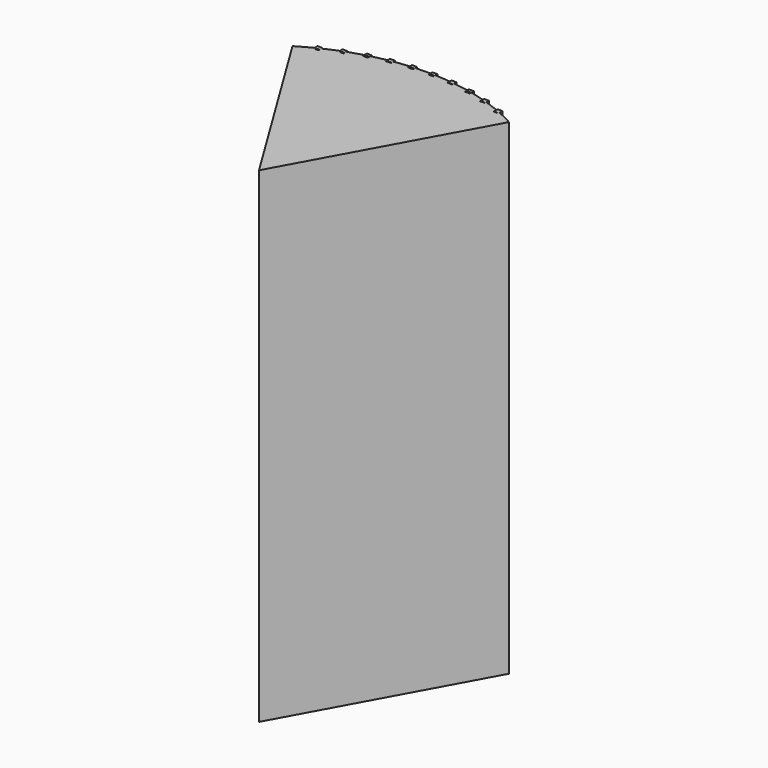
from build123d import *

# Parameters (mm, degrees)
F1_DEPTH = 2438.4
F2_W     = 101.6
F2_H     = 304.8
F3_DEPTH = 76.2


with BuildPart() as f1:
    # F0 (on Top) → F1 (new body)
    with BuildSketch(Plane.XY):
        Polygon((224.1277476209, 924.8243445616), (0, 0), (509.8876894797, 931.9939324599), align=None)
        Polygon((-270.2234111133, 912.4212972272), (-555.9833529721, 905.2517093289), (0, 0), align=None)
        Polygon((-270.2234111133, 912.4212972272), (-555.9833529721, 905.2517093289), (0, 0), align=None)
        Polygon((-474.6199722337, 941.5233528239), (-555.9833529721, 905.2517093289), (-270.2234111133, 912.4212972272), (-301.6757642422, 1018.6215584278), (-360.974825498, 992.1861474365), (-360.974825498, 981.7673301894), (-384.3459802856, 981.7673301894), (-454.2646013891, 950.5977392098), (-454.2646013891, 941.5233528239), align=None)
        with BuildLine():
            ThreePointArc((-479.6646013891, 947.9029571635), (-518.2629193552, 927.3627620551), (-555.9833529721, 905.2517093289))
            Line((-555.9833529721, 905.2517093289), (-474.6199722337, 941.5233528239))
            Line((-474.6199722337, 941.5233528239), (-479.6646013891, 941.5233528239))
            Line((-479.6646013891, 941.5233528239), (-479.6646013891, 947.9029571635))
        make_face()
        with BuildLine():
            Line((-479.6646013891, 966.9233528239), (-479.6646013891, 947.9029571635))
            ThreePointArc((-479.6646013891, 947.9029571635), (-467.0059668107, 954.2031088758), (-454.2646013891, 960.3342220028))
            Line((-454.2646013891, 960.3342220028), (-454.2646013891, 966.9233528239))
            Line((-454.2646013891, 966.9233528239), (-479.6646013891, 966.9233528239))
        make_face()
        with BuildLine():
            ThreePointArc((-454.2646013891, 960.3342220028), (-467.0059668107, 954.2031088758), (-479.6646013891, 947.9029571635))
            Line((-479.6646013891, 947.9029571635), (-479.6646013891, 941.5233528239))
            Line((-479.6646013891, 941.5233528239), (-474.6199722337, 941.5233528239))
            Line((-474.6199722337, 941.5233528239), (-454.2646013891, 950.5977392098))
            Line((-454.2646013891, 950.5977392098), (-454.2646013891, 960.3342220028))
        make_face()
        Polygon((224.1277476209, 924.8243445616), (0, 0), (509.8876894797, 931.9939324599), align=None)
        Polygon((-270.2234111133, 912.4212972272), (0, 0), (-23.0478317462, 918.6228208944), align=None)
        Polygon((-23.0478317462, 918.6228208944), (0, 0), (224.1277476209, 924.8243445616), align=None)
        Polygon((-301.6757642422, 1018.6215584278), (-270.2234111133, 912.4212972272), (-23.0478317462, 918.6228208944), (-26.6456220174, 1062.020789275), (-64.1601768635, 1056.1010642124), (-64.1601768635, 1046.8709788577), (-89.5601768635, 1046.8709788577), (-89.5601768635, 1052.092992753), (-165.0265067315, 1040.1845501197), (-165.0265067315, 1034.6831365981), (-190.4265067315, 1034.6831365981), (-190.4265067315, 1036.1764786603), (-264.2672867652, 1024.5245446843), (-264.2672867652, 1012.9155556966), (-289.6672867652, 1012.9155556966), (-289.6672867652, 1020.5164732249), align=None)
        with BuildLine():
            ThreePointArc((-386.374825498, 989.6022636627), (-420.5743882774, 975.558983327), (-454.2646013891, 960.3342220028))
            Line((-454.2646013891, 960.3342220028), (-454.2646013891, 950.5977392098))
            Line((-454.2646013891, 950.5977392098), (-384.3459802856, 981.7673301894))
            Line((-384.3459802856, 981.7673301894), (-386.374825498, 981.7673301894))
            Line((-386.374825498, 981.7673301894), (-386.374825498, 989.6022636627))
        make_face()
        with BuildLine():
            Line((427.8412147102, 963.7398903784), (509.8876894797, 931.9939324599))
            ThreePointArc((509.8876894797, 931.9939324599), (470.9582981255, 952.2585927424), (431.2251324627, 970.8980539467))
            Line((431.2251324626, 970.8980539467), (431.2251324626, 963.7398903784))
            Line((431.2251324626, 963.7398903784), (427.8412147102, 963.7398903784))
        make_face()
        Polygon((224.1277476209, 924.8243445616), (509.8876894797, 931.9939324599), (427.8412147102, 963.7398903784), (405.8251324626, 963.7398903784), (405.8251324626, 972.2584967234), (336.0345957465, 999.2623070386), (336.0345957465, 999.2549818141), (310.6345957465, 999.2549818141), (310.6345957465, 1009.090240943), (250.2148473105, 1032.4682446499), align=None)
        Polygon((-26.6456220174, 1062.020789275), (-23.0478317462, 918.6228208944), (224.1277476209, 924.8243445616), (250.2148473105, 1032.4682446499), (237.8867258321, 1033.7841687362), (237.8867258321, 1025.5143731109), (212.4867258321, 1025.5143731109), (212.4867258321, 1036.4954067663), (137.6792180415, 1044.480483934), (137.6792180415, 1042.2778865373), (112.2792180415, 1042.2778865373), (112.2792180415, 1047.1917219641), (36.0792180415, 1055.3254360545), (36.0792180415, 1049.3977159324), (10.6792180415, 1049.3977159324), (10.6792180415, 1058.0366740846), align=None)
        with BuildLine():
            Line((-360.974825498, 992.1861474365), (-301.6757642422, 1018.6215584278))
            ThreePointArc((-301.6757642422, 1018.6215584278), (-331.4683434869, 1009.3200103491), (-360.974825498, 999.1472971398))
            Line((-360.974825498, 999.1472971398), (-360.974825498, 992.1861474365))
        make_face()
        with BuildLine():
            ThreePointArc((-289.6672867653, 1022.1012714027), (-295.6766444857, 1020.3790805042), (-301.6757642422, 1018.6215584278))
            Line((-301.6757642422, 1018.6215584278), (-289.6672867652, 1020.5164732249))
            Line((-289.6672867652, 1020.5164732249), (-289.6672867652, 1022.1012714027))
        make_face()
        with BuildLine():
            Line((-386.374825498, 1007.1673301894), (-386.374825498, 989.6022636627))
            ThreePointArc((-386.374825498, 989.6022636627), (-373.7053011759, 994.4558783063), (-360.974825498, 999.1472971398))
            Line((-360.974825498, 999.1472971398), (-360.974825498, 1007.1673301894))
            Line((-360.974825498, 1007.1673301894), (-386.374825498, 1007.1673301894))
        make_face()
        with BuildLine():
            ThreePointArc((-360.974825498, 999.1472971398), (-373.7053011759, 994.4558783063), (-386.374825498, 989.6022636627))
            Line((-386.374825498, 989.6022636627), (-386.374825498, 981.7673301894))
            Line((-386.374825498, 981.7673301894), (-384.3459802856, 981.7673301894))
            Line((-384.3459802856, 981.7673301894), (-360.974825498, 992.1861474365))
            Line((-360.974825498, 992.1861474365), (-360.974825498, 999.1472971398))
        make_face()
        with BuildLine():
            Line((431.2251324626, 963.7398903784), (431.2251324626, 970.8980539467))
            ThreePointArc((431.2251324627, 970.8980539467), (418.5605384386, 976.4247137834), (405.8251324626, 981.786182367))
            Line((405.8251324626, 981.786182367), (405.8251324626, 972.2584967234))
            Line((405.8251324626, 972.2584967234), (427.8412147102, 963.7398903784))
            Line((427.8412147102, 963.7398903784), (431.2251324626, 963.7398903784))
        make_face()
        with BuildLine():
            ThreePointArc((405.8251324626, 981.786182367), (418.5605384386, 976.4247137834), (431.2251324627, 970.8980539467))
            Line((431.2251324626, 970.8980539467), (431.2251324626, 989.1398903784))
            Line((431.2251324626, 989.1398903784), (405.8251324626, 989.1398903784))
            Line((405.8251324626, 989.1398903784), (405.8251324626, 981.786182367))
        make_face()
        with BuildLine():
            Line((-64.1601768635, 1056.1010642124), (-26.6456220174, 1062.020789275))
            ThreePointArc((-26.6456220174, 1062.020789275), (-45.4099911319, 1061.3840392292), (-64.1601768634, 1060.4157758775))
            Line((-64.1601768635, 1060.4157758775), (-64.1601768635, 1056.1010642124))
        make_face()
        with BuildLine():
            ThreePointArc((10.6792180415, 1062.301322755), (-7.9844341527, 1062.3249949221), (-26.6456220174, 1062.020789275))
            Line((-26.6456220174, 1062.020789275), (10.6792180415, 1058.0366740846))
            Line((10.6792180415, 1058.0366740846), (10.6792180415, 1062.301322755))
        make_face()
        with BuildLine():
            Line((237.8867258321, 1033.7841687362), (250.2148473105, 1032.4682446499))
            ThreePointArc((250.2148473105, 1032.4682446499), (244.0551237128, 1033.9416050312), (237.8867258321, 1035.3782167391))
            Line((237.8867258321, 1035.3782167391), (237.8867258321, 1033.7841687362))
        make_face()
        with BuildLine():
            ThreePointArc((310.6345957465, 1015.9253387678), (280.5466830638, 1024.6422325119), (250.2148473105, 1032.4682446499))
            Line((250.2148473105, 1032.4682446499), (310.6345957465, 1009.090240943))
            Line((310.6345957465, 1009.090240943), (310.6345957465, 1015.9253387678))
        make_face()
        with BuildLine():
            Line((-289.6672867652, 1038.3155556966), (-289.6672867652, 1022.1012714027))
            ThreePointArc((-289.6672867653, 1022.1012714027), (-276.9885236852, 1025.6098204345), (-264.2672867653, 1028.9611009026))
            Line((-264.2672867652, 1028.9611009026), (-264.2672867652, 1038.3155556966))
            Line((-264.2672867652, 1038.3155556966), (-289.6672867652, 1038.3155556966))
        make_face()
        with BuildLine():
            ThreePointArc((-264.2672867653, 1028.9611009026), (-276.9885236852, 1025.6098204345), (-289.6672867653, 1022.1012714027))
            Line((-289.6672867652, 1022.1012714027), (-289.6672867652, 1020.5164732249))
            Line((-289.6672867652, 1020.5164732249), (-264.2672867652, 1024.5245446843))
            Line((-264.2672867652, 1024.5245446843), (-264.2672867652, 1028.9611009026))
        make_face()
        with BuildLine():
            Line((405.8251324626, 972.2584967234), (405.8251324626, 981.786182367))
            ThreePointArc((405.8251324626, 981.786182367), (371.1579991079, 995.4094060854), (336.0345957465, 1007.8089583282))
            Line((336.0345957465, 1007.8089583282), (336.0345957465, 999.2623070386))
            Line((336.0345957465, 999.2623070386), (405.8251324626, 972.2584967234))
        make_face()
        with BuildLine():
            Line((-64.1601768635, 1056.1010642124), (-64.1601768635, 1060.4157758775))
            ThreePointArc((-64.1601768634, 1060.4157758775), (-76.8656984749, 1059.5705783113), (-89.5601768635, 1058.5731532328))
            Line((-89.5601768635, 1058.5731532328), (-89.5601768635, 1052.092992753))
            Line((-89.5601768635, 1052.092992753), (-64.1601768635, 1056.1010642124))
        make_face()
        with BuildLine():
            ThreePointArc((-89.5601768635, 1058.5731532328), (-76.8656984749, 1059.5705783113), (-64.1601768634, 1060.4157758775))
            Line((-64.1601768635, 1060.4157758775), (-64.1601768635, 1072.2709788577))
            Line((-64.1601768635, 1072.2709788577), (-89.5601768635, 1072.2709788577))
            Line((-89.5601768635, 1072.2709788577), (-89.5601768635, 1058.5731532328))
        make_face()
        with BuildLine():
            Line((10.6792180415, 1074.7977159324), (10.6792180415, 1062.301322755))
            ThreePointArc((10.6792180415, 1062.301322755), (23.3808896135, 1062.0976791359), (36.0792180415, 1061.7421702327))
            Line((36.0792180415, 1061.7421702327), (36.0792180415, 1074.7977159324))
            Line((36.0792180415, 1074.7977159324), (10.6792180415, 1074.7977159324))
        make_face()
        with BuildLine():
            ThreePointArc((36.0792180415, 1061.7421702327), (23.3808896135, 1062.0976791359), (10.6792180415, 1062.301322755))
            Line((10.6792180415, 1062.301322755), (10.6792180415, 1058.0366740846))
            Line((10.6792180415, 1058.0366740846), (36.0792180415, 1055.3254360545))
            Line((36.0792180415, 1055.3254360545), (36.0792180415, 1061.7421702327))
        make_face()
        with BuildLine():
            Line((237.8867258321, 1033.7841687362), (237.8867258321, 1035.3782167391))
            ThreePointArc((237.8867258321, 1035.3782167391), (225.2035757566, 1038.2107182511), (212.4867258321, 1040.887860132))
            Line((212.4867258321, 1040.887860132), (212.4867258321, 1036.4954067663))
            Line((212.4867258321, 1036.4954067663), (237.8867258321, 1033.7841687362))
        make_face()
        with BuildLine():
            ThreePointArc((212.4867258321, 1040.887860132), (225.2035757566, 1038.2107182511), (237.8867258321, 1035.3782167391))
            Line((237.8867258321, 1035.3782167391), (237.8867258321, 1050.9143731109))
            Line((237.8867258321, 1050.9143731109), (212.4867258321, 1050.9143731109))
            Line((212.4867258321, 1050.9143731109), (212.4867258321, 1040.887860132))
        make_face()
        with BuildLine():
            Line((310.6345957465, 1024.6549818141), (310.6345957465, 1015.9253387678))
            ThreePointArc((310.6345957465, 1015.9253387678), (323.3600620275, 1011.9468446073), (336.0345957465, 1007.8089583282))
            Line((336.0345957465, 1007.8089583282), (336.0345957465, 1024.6549818141))
            Line((336.0345957465, 1024.6549818141), (310.6345957465, 1024.6549818141))
        make_face()
        with BuildLine():
            ThreePointArc((336.0345957465, 1007.8089583282), (323.3600620275, 1011.9468446073), (310.6345957465, 1015.9253387678))
            Line((310.6345957465, 1015.9253387678), (310.6345957465, 1009.090240943))
            Line((310.6345957465, 1009.090240943), (336.0345957465, 999.2623070386))
            Line((336.0345957465, 999.2623070386), (336.0345957465, 1007.8089583282))
        make_face()
        with BuildLine():
            ThreePointArc((-190.4265067315, 1045.1487413565), (-227.4909259443, 1037.7119179416), (-264.2672867653, 1028.9611009026))
            Line((-264.2672867652, 1028.9611009026), (-264.2672867652, 1024.5245446843))
            Line((-264.2672867652, 1024.5245446843), (-190.4265067315, 1036.1764786603))
            Line((-190.4265067315, 1036.1764786603), (-190.4265067315, 1045.1487413565))
        make_face()
        with BuildLine():
            Line((-89.5601768635, 1052.092992753), (-89.5601768635, 1058.5731532328))
            ThreePointArc((-89.5601768635, 1058.5731532328), (-127.3748851511, 1054.691321979), (-165.0265067315, 1049.4590978695))
            Line((-165.0265067315, 1049.4590978695), (-165.0265067315, 1040.1845501197))
            Line((-165.0265067315, 1040.1845501197), (-89.5601768635, 1052.092992753))
        make_face()
        with BuildLine():
            ThreePointArc((112.2792180415, 1056.4049996195), (74.2272034822, 1059.7586839881), (36.0792180415, 1061.7421702327))
            Line((36.0792180415, 1061.7421702327), (36.0792180415, 1055.3254360545))
            Line((36.0792180415, 1055.3254360545), (112.2792180415, 1047.1917219641))
            Line((112.2792180415, 1047.1917219641), (112.2792180415, 1056.4049996195))
        make_face()
        with BuildLine():
            Line((212.4867258321, 1036.4954067663), (212.4867258321, 1040.887860132))
            ThreePointArc((212.4867258321, 1040.887860132), (175.1946312214, 1047.8096140121), (137.6792180416, 1053.3957371019))
            Line((137.6792180415, 1053.3957371019), (137.6792180415, 1044.480483934))
            Line((137.6792180415, 1044.480483934), (212.4867258321, 1036.4954067663))
        make_face()
        with BuildLine():
            Line((-190.4265067315, 1060.0831365981), (-190.4265067315, 1045.1487413565))
            ThreePointArc((-190.4265067315, 1045.1487413565), (-177.739573501, 1047.3809192632), (-165.0265067315, 1049.4590978695))
            Line((-165.0265067315, 1049.4590978695), (-165.0265067315, 1060.0831365981))
            Line((-165.0265067315, 1060.0831365981), (-190.4265067315, 1060.0831365981))
        make_face()
        with BuildLine():
            ThreePointArc((-165.0265067315, 1049.4590978695), (-177.739573501, 1047.3809192632), (-190.4265067315, 1045.1487413565))
            Line((-190.4265067315, 1045.1487413565), (-190.4265067315, 1036.1764786603))
            Line((-190.4265067315, 1036.1764786603), (-165.0265067315, 1040.1845501197))
            Line((-165.0265067315, 1040.1845501197), (-165.0265067315, 1049.4590978695))
        make_face()
        with BuildLine():
            Line((112.2792180415, 1067.6778865373), (112.2792180415, 1056.4049996195))
            ThreePointArc((112.2792180415, 1056.4049996195), (124.9882748801, 1054.9768135687), (137.6792180416, 1053.3957371019))
            Line((137.6792180415, 1053.3957371019), (137.6792180415, 1067.6778865373))
            Line((137.6792180415, 1067.6778865373), (112.2792180415, 1067.6778865373))
        make_face()
        with BuildLine():
            ThreePointArc((137.6792180416, 1053.3957371019), (124.9882748801, 1054.9768135687), (112.2792180415, 1056.4049996195))
            Line((112.2792180415, 1056.4049996195), (112.2792180415, 1047.1917219641))
            Line((112.2792180415, 1047.1917219641), (137.6792180415, 1044.480483934))
            Line((137.6792180415, 1044.480483934), (137.6792180415, 1053.3957371019))
        make_face()
    extrude(amount=F1_DEPTH)


with BuildPart() as f3:
    # F2 (on Top) → F3 (new body)
    with BuildSketch(Plane.XY):
        with Locations((-245.8221390843, 1340.7095196815)):
            Rectangle(F2_W, F2_H)
    extrude(amount=F3_DEPTH)


solid = Compound([f1.part, f3.part])
